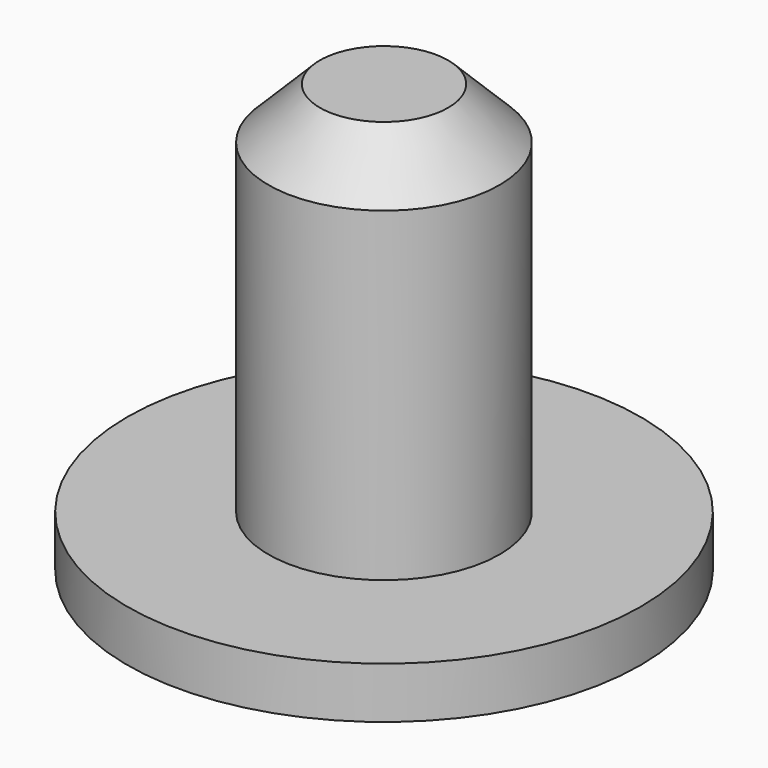
from build123d import *

# Parameters (mm, degrees)
SKETCH_R     = 6.75
PAD_DEPTH    = 25
SKETCH001_R  = 15
PAD001_DEPTH = 3
CHAMFER_SIZE = 3


with BuildPart() as part:
    # Sketch → Pad (new body)
    with BuildSketch(Plane.XY):
        Circle(SKETCH_R)
    extrude(amount=PAD_DEPTH)

    # Sketch001 → Pad001 (join)
    with BuildSketch(Plane.XY):
        Circle(SKETCH001_R)
    extrude(amount=PAD001_DEPTH)

    # Chamfer
    chamfer_edges = [part.edges().sort_by_distance(p)[0] for p in [
        (-6.75, 0, 25),
    ]]
    chamfer(chamfer_edges, length=CHAMFER_SIZE)


solid = part.part
